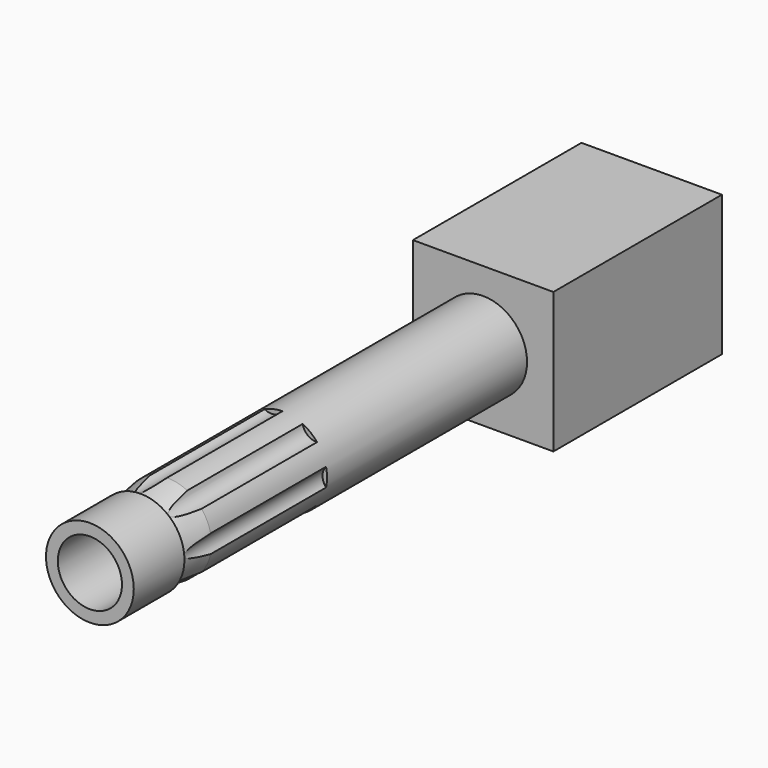
from build123d import *

# Parameters (mm, degrees)
F0_W     = 25.4
F0_H     = 25.4
F0_R     = 7.9375
F0_R_2   = 5.8024107256
F1_DEPTH = 38.1
F2_DEPTH = 127
F6_START = -12.192
F5_R     = 2.4554456834
F6_DEPTH = 31.496


with BuildPart() as f1:
    # F0 (on Front) → F1 (new body)
    with BuildSketch(Plane.XZ):
        Rectangle(F0_W, F0_H)
        Circle(F0_R, mode=Mode.SUBTRACT)
        Circle(F0_R)
        Circle(F0_R_2, mode=Mode.SUBTRACT)
    extrude(amount=F1_DEPTH)

    # F0 (on Front) → F2 (join)
    with BuildSketch(Plane.XZ):
        Circle(F0_R)
        Circle(F0_R_2, mode=Mode.SUBTRACT)
    extrude(amount=F2_DEPTH)

    # F3 (on Top) → F4 (revolve, cut)
    with BuildSketch(Plane.XY):
        Polygon((-8.0296611413, -108.8151410222), (-8.0938637257, -115.6206354499), (-7.0666195825, -115.1070147753), align=None)
    revolve(axis=Axis((0, 0, 0), (0, -1, 0)), mode=Mode.SUBTRACT)

    # F5 (on face) → F6 (cut)
    with BuildSketch(Plane.XZ.offset(127).offset(F6_START)):
        with Locations((9.5767229945, -0.0002272034)):
            Circle(F5_R)
        with Locations((5.9707205281, 7.487714074)):
            Circle(F5_R)
        with Locations((-2.1318934647, 9.3370828434)):
            Circle(F5_R)
        with Locations((-8.6296853842, 4.1552667011)):
            Circle(F5_R)
        with Locations((-8.6296853842, -4.155721108)):
            Circle(F5_R)
        with Locations((-2.1318934647, -9.3375372503)):
            Circle(F5_R)
        with Locations((5.9707205281, -7.4881684809)):
            Circle(F5_R)
    extrude(amount=-F6_DEPTH, mode=Mode.SUBTRACT)


solid = f1.part
